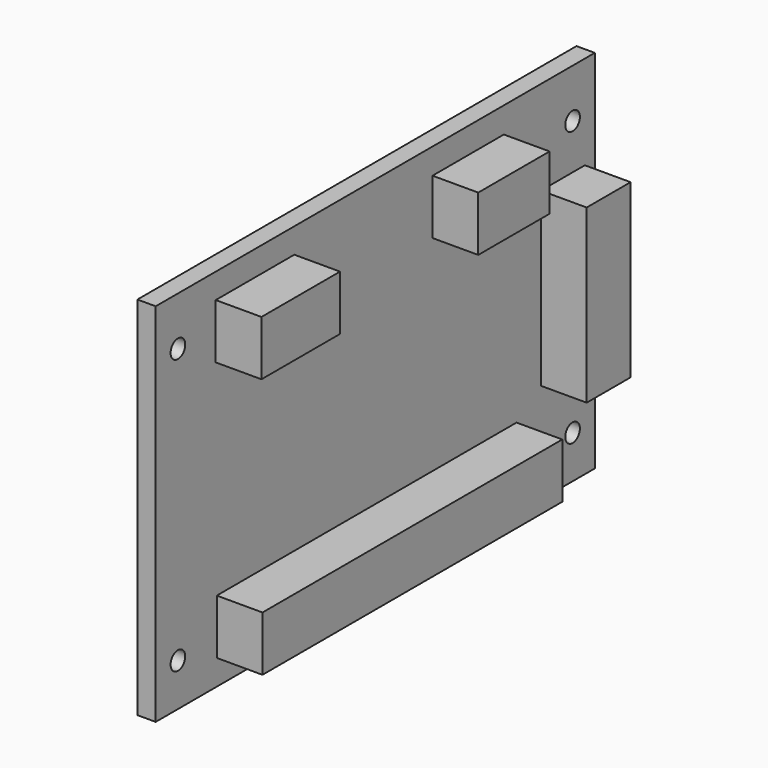
from build123d import *

# Parameters (mm, degrees)
SKETCH_W      = 60
SKETCH_H      = 40
SKETCH_R      = 1
PAD_DEPTH     = 2
SKETCH001_W   = 10.734469
SKETCH001_H   = 6
SKETCH001_W_2 = 6
SKETCH001_H_2 = 18.785311
SKETCH001_W_3 = 40.960449
SKETCH001_W_4 = 9.745754
PAD001_DEPTH  = 5


with BuildPart() as part:
    # Sketch → Pad (new body)
    with BuildSketch(Plane.YZ):
        with Locations((30, 20)):
            Rectangle(SKETCH_W, SKETCH_H)
        with Locations((3.035, 34.678047)):
            Circle(SKETCH_R, mode=Mode.SUBTRACT)
        with Locations((56.965, 34.678047)):
            Circle(SKETCH_R, mode=Mode.SUBTRACT)
        with Locations((56.965, 4.678047)):
            Circle(SKETCH_R, mode=Mode.SUBTRACT)
        with Locations((3.035, 4.678047)):
            Circle(SKETCH_R, mode=Mode.SUBTRACT)
    extrude(amount=PAD_DEPTH)

    # Sketch001 (on Face10 of Pad) → Pad001 (join)
    with BuildSketch(Plane.YZ.offset(2)):
        with Locations((13.569118, 34.265322)):
            Rectangle(SKETCH001_W, SKETCH001_H)
        with Locations((55.642065, 20.339975)):
            Rectangle(SKETCH001_W_2, SKETCH001_H_2)
        with Locations((28.823356, 5.767194)):
            Rectangle(SKETCH001_W_3, SKETCH001_H)
        with Locations((42.696971, 34.192021)):
            Rectangle(SKETCH001_W_4, SKETCH001_H)
    extrude(amount=PAD001_DEPTH)


solid = part.part
